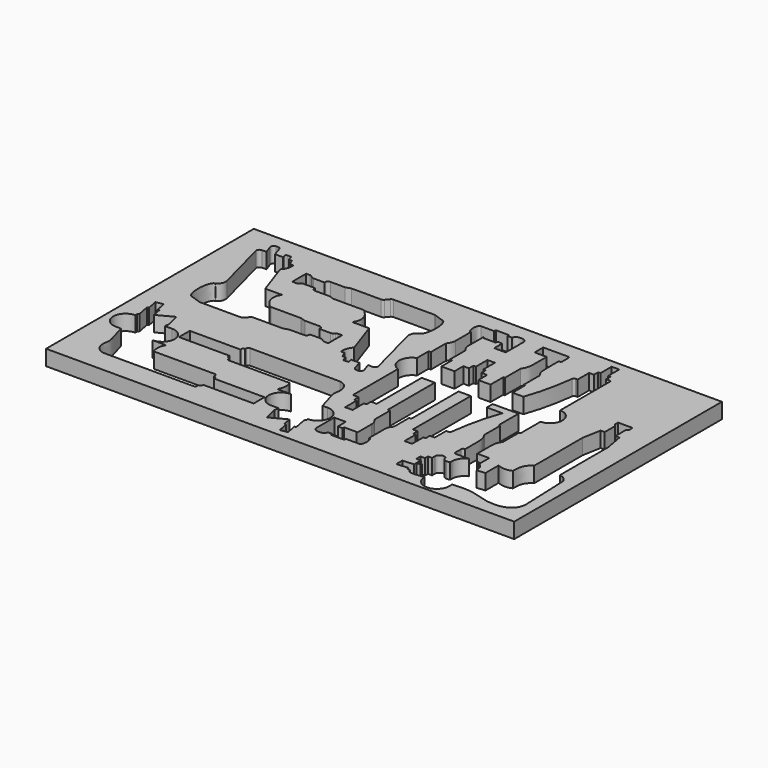
from build123d import *

# Parameters (mm, degrees)
F0_W     = 759
F0_H     = 421
F1_DEPTH = 25
F3_DEPTH = 25


with BuildPart() as f1:
    # F0 (on Top) → F1 (new body)
    with BuildSketch(Plane.XY):
        with Locations((379.5, 210.5)):
            Rectangle(F0_W, F0_H)
        with BuildLine():
            ThreePointArc((297.8065345713, 96.5237894569), (301.4198790152, 107.8318790432), (299.3635767418, 119.5237894569))
            Line((299.3635767418, 119.5237894569), (200.3635767418, 119.5237894569))
            ThreePointArc((200.3635767418, 119.5237894569), (198.2422563983, 120.4024691134), (197.3635767418, 122.5237894569))
            Line((197.3635767418, 122.5237894569), (197.3635767418, 125.215135717))
            Line((197.3635767418, 125.215135717), (196.3635767418, 125.215135717))
            ThreePointArc((196.3635767418, 125.215135717), (194.2422563983, 126.0938153734), (193.3635767418, 128.215135717))
            Line((193.3635767418, 128.215135717), (193.3635767418, 130.0237894569))
            Line((193.3635767418, 130.0237894569), (111.3635767418, 130.0237894569))
            Line((111.3635767418, 130.0237894569), (111.3635767418, 141.0237894569))
            Line((111.3635767418, 141.0237894569), (111.3635767418, 152.0237894569))
            Line((111.3635767418, 152.0237894569), (193.3635767418, 152.0237894569))
            Line((193.3635767418, 152.0237894569), (193.3635767418, 153.8324431969))
            ThreePointArc((193.3635767418, 153.8324431969), (194.2422563983, 155.9537635404), (196.3635767418, 156.8324431969))
            Line((196.3635767418, 156.8324431969), (197.3635767418, 156.8324431969))
            Line((197.3635767418, 156.8324431969), (197.3635767418, 159.5237894569))
            ThreePointArc((197.3635767418, 159.5237894569), (198.2422563983, 161.6451098005), (200.3635767418, 162.5237894569))
            Line((200.3635767418, 162.5237894569), (299.3635767418, 162.5237894569))
            Line((299.3635767418, 162.5237894569), (346.3635767418, 162.5237894569))
            add(Edge.make_bspline(
                [(346.3635767418, 162.5237894569), (361.0133890826, 160.2262736474), (363.9664194278, 139.7781896956), (357.6443728897, 131.2149875787), (377.0174596502, 85.6661492262), (379.7241853382, 53.5237894569)],
                knots=[0, 0, 0, 0, 0.3006456814, 0.4801373436, 1, 1, 1, 1], degree=3))
            Line((379.7241853382, 53.5237894569), (377.5981784342, 50.8200850994))
            Line((377.5981784342, 50.8200850994), (381.5354905367, 30.303162995))
            Line((381.5354905367, 30.303162995), (378.8600717667, 29.7897351695))
            Line((378.8600717667, 29.7897351695), (382.1233010385, 12.7853882864))
            Line((382.1233010385, 12.7853882864), (370.3383457677, 10.5237894569))
            Line((370.3383457677, 10.5237894569), (367.0388546955, 27.5211774977))
            Line((367.0388546955, 27.5211774977), (364.3645368922, 27.0020455173))
            Line((364.3645368922, 27.0020455173), (361.6015602376, 41.2355698148))
            Line((361.6015602376, 41.2355698148), (336.1134910264, 27.7016565111))
            Line((336.1134910264, 27.7016565111), (330.5957455951, 49.7016565111))
            add(Edge.make_bspline(
                [(319.8065345713, 96.5237894569), (331.4341296274, 86.6735235964), (334.4084647316, 63.7711242941), (330.5957455951, 49.7016565111)],
                knots=[0, 0, 0, 0, 48.0491332711, 48.0491332711, 48.0491332711, 48.0491332711], degree=3))
            Line((319.8065345713, 96.5237894569), (297.8065345713, 96.5237894569))
        make_face(mode=Mode.SUBTRACT)
        with BuildLine():
            ThreePointArc((112.5540558689, 102.4800832445), (108.9407114251, 91.1719936582), (110.9970136985, 79.4800832445))
            Line((110.9970136985, 79.4800832445), (209.9970136985, 79.4800832445))
            ThreePointArc((209.9970136985, 79.4800832445), (212.118334042, 78.601403588), (212.9970136985, 76.4800832445))
            Line((212.9970136985, 76.4800832445), (212.9970136985, 73.7887369844))
            Line((212.9970136985, 73.7887369844), (213.9970136985, 73.7887369844))
            ThreePointArc((213.9970136985, 73.7887369844), (216.118334042, 72.910057328), (216.9970136985, 70.7887369844))
            Line((216.9970136985, 70.7887369844), (216.9970136985, 68.9800832445))
            Line((216.9970136985, 68.9800832445), (298.9970136985, 68.9800832445))
            Line((298.9970136985, 68.9800832445), (298.9970136985, 57.9800832445))
            Line((298.9970136985, 57.9800832445), (298.9970136985, 46.9800832445))
            Line((298.9970136985, 46.9800832445), (216.9970136985, 46.9800832445))
            Line((216.9970136985, 46.9800832445), (216.9970136985, 45.1714295045))
            ThreePointArc((216.9970136985, 45.1714295045), (216.118334042, 43.0501091609), (213.9970136985, 42.1714295045))
            Line((213.9970136985, 42.1714295045), (212.9970136985, 42.1714295045))
            Line((212.9970136985, 42.1714295045), (212.9970136985, 39.4800832445))
            ThreePointArc((212.9970136985, 39.4800832445), (212.118334042, 37.3587629009), (209.9970136985, 36.4800832445))
            Line((209.9970136985, 36.4800832445), (110.9970136985, 36.4800832445))
            Line((110.9970136985, 36.4800832445), (63.9970136985, 36.4800832445))
            add(Edge.make_bspline(
                [(63.9970136985, 36.4800832445), (49.3472013577, 38.777599054), (46.3941710125, 59.2256830057), (52.7162175506, 67.7888851227), (33.34313079, 113.3377234752), (30.6364051021, 145.4800832445)],
                knots=[0, 0, 0, 0, 0.3006456814, 0.4801373436, 1, 1, 1, 1], degree=3))
            Line((30.6364051021, 145.4800832445), (32.7624120061, 148.183787602))
            Line((32.7624120061, 148.183787602), (28.8250999036, 168.7007097064))
            Line((28.8250999036, 168.7007097064), (31.5005186735, 169.2141375319))
            Line((31.5005186735, 169.2141375319), (28.2372894018, 186.218484415))
            Line((28.2372894018, 186.218484415), (40.0222446726, 188.4800832445))
            Line((40.0222446726, 188.4800832445), (43.3217357448, 171.4826952037))
            Line((43.3217357448, 171.4826952037), (45.9960535481, 172.0018271841))
            Line((45.9960535481, 172.0018271841), (48.7590302027, 157.7683028866))
            Line((48.7590302027, 157.7683028866), (74.2470994139, 171.3022161903))
            Line((74.2470994139, 171.3022161903), (79.7648448452, 149.3022161903))
            add(Edge.make_bspline(
                [(90.5540558689, 102.4800832445), (78.9264608129, 112.330349105), (75.9521257087, 135.2327484073), (79.7648448452, 149.3022161903)],
                knots=[0, 0, 0, 0, 48.0491332712, 48.0491332712, 48.0491332712, 48.0491332712], degree=3))
            Line((90.5540558689, 102.4800832445), (112.5540558689, 102.4800832445))
        make_face(mode=Mode.SUBTRACT)
        with BuildLine():
            Line((471.8426991832, 292.6370518442), (481.0009230506, 292.6370518442))
            Line((481.0009230506, 292.6370518442), (481.0009230506, 139.0754858192))
            Line((481.0009230506, 139.0754858192), (477.4204762393, 139.0754858192))
            Line((477.4204762393, 139.0754858192), (477.4204762393, 108.4958741602))
            add(Edge.make_bspline(
                [(477.4204762393, 108.4958741602), (475.2619792354, 105.9254648324), (472.0893432033, 101.2552621003), (472.2341973913, 95.4593027171)],
                knots=[0, 0, 0, 0, 14.0303130143, 14.0303130143, 14.0303130143, 14.0303130143], degree=3))
            Line((472.2341973913, 95.4593027171), (472.2341973913, 64.6399760779))
            add(Edge.make_bspline(
                [(472.2341973913, 64.6399760779), (478.1872708929, 64.6101774808), (478.3994932306, 44.0659800705), (472.2341973913, 44.0502705213)],
                knots=[0, 0, 0, 0, 20.5897055566, 20.5897055566, 20.5897055566, 20.5897055566], degree=3))
            Line((472.2341973913, 44.0502705213), (451.3408250826, 44.0502705213))
            Line((451.3408250826, 44.0502705213), (450.1907308233, 40.8706011411))
            Line((450.1907308233, 40.8706011411), (429.2036522758, 40.8706011411))
            Line((429.2036522758, 40.8706011411), (429.2036522758, 44.0502705213))
            Line((429.2036522758, 44.0502705213), (421.5516973865, 44.0502705213))
            add(Edge.make_bspline(
                [(421.5516973865, 44.0502705213), (421.2760706079, 35.0835563775), (403.0773271453, 35.9855236646), (402.8120417726, 44.0502705213)],
                knots=[0, 0, 0, 0, 18.7396556139, 18.7396556139, 18.7396556139, 18.7396556139], degree=3))
            Line((402.8120417726, 44.0502705213), (402.8120417726, 80.561512911))
            Line((402.8120417726, 80.561512911), (421.5516973865, 80.561512911))
            Line((421.5516973865, 80.561512911), (421.5516973865, 64.3079223272))
            Line((421.5516973865, 64.3079223272), (429.2036522758, 64.3079223272))
            Line((429.2036522758, 64.3079223272), (429.2036522758, 67.4875917073))
            Line((429.2036522758, 67.4875917073), (450.1907308233, 67.4875917073))
            Line((450.1907308233, 67.4875917073), (451.1581952144, 64.8128397243))
            Line((451.1581952144, 64.8128397243), (451.1581952144, 95.4593027171))
            add(Edge.make_bspline(
                [(445.9719163664, 108.4958741602), (448.1304133702, 105.9254648324), (451.3030494023, 101.2552621003), (451.1581952144, 95.4593027171)],
                knots=[0, 0, 0, 0, 14.0303130143, 14.0303130143, 14.0303130143, 14.0303130143], degree=3))
            Line((445.9719163664, 108.4958741602), (445.9719163664, 139.0754858192))
            Line((445.9719163664, 139.0754858192), (442.391469555, 139.0754858192))
            Line((442.391469555, 139.0754858192), (442.391469555, 292.6370518442))
            Line((442.391469555, 292.6370518442), (451.5496934224, 292.6370518442))
            Line((451.5496934224, 292.6370518442), (451.5496934224, 301.5947284337))
            Line((451.5496934224, 301.5947284337), (455.6559873112, 301.5947284337))
            Line((455.6559873112, 301.5947284337), (455.6559873112, 324.9025659796))
            Line((455.6559873112, 324.9025659796), (461.6961963028, 324.9025659796))
            Line((461.6961963028, 324.9025659796), (467.7364052945, 324.9025659796))
            Line((467.7364052945, 324.9025659796), (467.7364052945, 301.5947284337))
            Line((467.7364052945, 301.5947284337), (471.8426991832, 301.5947284337))
            Line((471.8426991832, 301.5947284337), (471.8426991832, 292.6370518442))
        make_face(mode=Mode.SUBTRACT)
        with BuildLine():
            Line((724.467581263, 233.9490050221), (724.467581263, 135.5878903816))
            ThreePointArc((724.467581263, 135.5878903816), (732.8262483431, 132.2434807548), (738.076768903, 124.9301761011))
            Line((738.076768903, 124.9301761011), (741.075201085, 50.0048949937))
            add(Edge.make_bspline(
                [(561.8964937834, 28.7687211851), (565.0696982019, 28.7547259622), (568.7637255679, 28.1894967071), (569.5508132889, 16.777712275), (659.5525773998, 41.5614773682), (696.8769079907, 14.9737086821), (742.9515105991, 24.9971106271), (741.075201085, 50.0048949937)],
                knots=[0, 0, 0, 0, 0.0900193427, 0.1711354667, 0.4934505556, 0.7541760679, 1, 1, 1, 1], degree=3))
            Line((561.8964937834, 28.7687211851), (561.8964937834, 31.495132332))
            Line((561.8964937834, 31.495132332), (543.7403080103, 30.1225497102))
            Line((543.7403080103, 30.1225497102), (543.7403080103, 42.2867034165))
            Line((543.7403080103, 42.2867034165), (561.8964937834, 43.6592860382))
            Line((561.8964937834, 43.6592860382), (561.8964937834, 48.391287646))
            Line((561.8964937834, 48.391287646), (568.6106887974, 48.391287646))
            Line((568.6106887974, 48.391287646), (568.6106887974, 50.7186084608))
            Line((568.6106887974, 50.7186084608), (561.8964937834, 50.7186084608))
            Line((561.8964937834, 50.7186084608), (561.8964937834, 57.0070036563))
            Line((561.8964937834, 57.0070036563), (554.6410289912, 57.0070036563))
            Line((554.6410289912, 57.0070036563), (554.6410289912, 65.4650536358))
            Line((554.6410289912, 65.4650536358), (561.8964937834, 65.4650536358))
            Line((561.8964937834, 65.4650536358), (561.8964937834, 71.6114669661))
            Line((561.8964937834, 71.6114669661), (568.6106887974, 71.6114669661))
            Line((568.6106887974, 71.6114669661), (568.6106887974, 77.1525132551))
            ThreePointArc((568.6106887974, 77.1525132551), (572.7381362335, 83.9709341346), (580.6930817378, 83.4754266653))
            ThreePointArc((580.6930817378, 83.4754266653), (581.2704208742, 82.8571350303), (581.54051469, 82.0554777749))
            ThreePointArc((581.54051469, 82.0554777749), (583.8424916197, 77.5969621963), (588.5301438479, 75.8071645717))
            Line((588.5301438479, 75.8071645717), (647.2599563507, 81.4479684761))
            Line((647.2599563507, 81.4479684761), (647.2599563507, 108.3575069527))
            ThreePointArc((647.2599563507, 108.3575069527), (658.8630283621, 105.1367402665), (670.6316528229, 107.6870532761))
            add(Edge.make_bspline(
                [(670.6316528229, 107.6870532761), (670.6316528229, 121.2448693636), (675.0543508644, 129.7909912969), (679.3782002879, 133.0860063036), (682.9549131302, 135.5878903816)],
                knots=[0, 0, 0, 0, 0.6127133265, 1, 1, 1, 1], degree=3))
            Line((682.9549131302, 135.5878903816), (682.9549131302, 233.9490050221))
            Line((682.9549131302, 233.9490050221), (688.3762610463, 263.3384048561))
            Line((688.3762610463, 263.3384048561), (694.97985964, 263.3384048561))
            Line((694.97985964, 263.3384048561), (694.97985964, 284.2780361697))
            Line((694.97985964, 284.2780361697), (691.9212249426, 287.9231750588))
            Line((691.9212249426, 287.9231750588), (691.9212249426, 294.3406283478))
            Line((691.9212249426, 294.3406283478), (703.7112471966, 294.3406283478))
            Line((703.7112471966, 294.3406283478), (715.5012694506, 294.3406283478))
            Line((715.5012694506, 294.3406283478), (715.5012694506, 287.9231750588))
            Line((715.5012694506, 287.9231750588), (712.4426347532, 284.2780361697))
            Line((712.4426347532, 284.2780361697), (712.4426347532, 263.3384048561))
            Line((712.4426347532, 263.3384048561), (719.0462333469, 263.3384048561))
            Line((719.0462333469, 263.3384048561), (724.467581263, 233.9490050221))
        make_face(mode=Mode.SUBTRACT)
        with BuildLine():
            Line((138.7471209294, 221.3752079098), (72.39474203, 221.3752079098))
            ThreePointArc((72.39474203, 221.3752079098), (71.5589917132, 221.4455505781), (70.7467569593, 221.6545993467))
            Line((70.7467569593, 221.6545993467), (56.0633288256, 226.7806482508))
            add(Edge.make_bspline(
                [(56.0633288256, 273.7342295244), (45.1919929615, 273.7342295244), (43.7846248529, 226.7806482508), (56.0633288256, 226.7806482508)],
                knots=[0, 0, 0, 0, 46.9535812736, 46.9535812736, 46.9535812736, 46.9535812736], degree=3))
            ThreePointArc((56.0633288256, 273.7342295244), (61.7853216943, 280.2761959921), (62.3768287624, 288.9473347318))
            Line((62.3768287624, 288.9473347318), (39.6245335176, 375.465926667))
            ThreePointArc((39.6245335176, 375.465926667), (40.5004375975, 379.7905833044), (44.4601228553, 381.7375696033))
            Line((44.4601228553, 381.7375696033), (51.8821131184, 381.7375696033))
            Line((51.8821131184, 381.7375696033), (47.3247239493, 394.6431996458))
            ThreePointArc((47.3247239493, 394.6431996458), (47.9574514553, 399.1956158801), (52.0393933954, 401.3080996468))
            Line((52.0393933954, 401.3080996468), (55.0751392747, 401.3080996468))
            ThreePointArc((55.0751392747, 401.3080996468), (58.0295664278, 400.3418770573), (59.8421398791, 397.8166437257))
            Line((59.8421398791, 397.8166437257), (64.3791006438, 383.479843755))
            Line((64.3791006438, 383.479843755), (77.6938655905, 383.479843755))
            Line((77.6938655905, 383.479843755), (76.3775946501, 388.1599171366))
            ThreePointArc((76.3775946501, 388.1599171366), (76.708690969, 389.9090957538), (78.302896498, 390.7014084055))
            Line((78.302896498, 390.7014084055), (83.4475559062, 390.7014084055))
            ThreePointArc((83.4475559062, 390.7014084055), (84.6309182085, 390.3137525566), (85.3555431929, 389.301062067))
            Line((85.3555431929, 389.301062067), (87.3978482119, 382.8028243973))
            Line((87.3978482119, 382.8028243973), (92.1370060674, 382.8028243973))
            Line((92.1370060674, 382.8028243973), (95.9734590284, 374.064935287))
            Line((95.9734590284, 374.064935287), (101.8255328238, 374.064935287))
            ThreePointArc((101.8255328238, 374.064935287), (100.8538115111, 363.8816884306), (95.4749853841, 355.1804822876))
            Line((95.4749853841, 355.1804822876), (113.7973339788, 301.991696377))
            Line((113.7973339788, 301.991696377), (141.1838130585, 301.991696377))
            ThreePointArc((141.1838130585, 301.991696377), (136.9108907917, 289.3169656153), (141.0786592202, 276.6072696745))
            Line((141.0786592202, 276.6072696745), (147.4577107776, 269.0050120637))
            ThreePointArc((147.4577107776, 269.0050120637), (149.1748416845, 267.6874111769), (151.2879329932, 267.2189501121))
            Line((151.2879329932, 267.2189501121), (199.7026714511, 267.2189501121))
            Line((199.7026714511, 267.2189501121), (207.8253862445, 264.6463575654))
            Line((207.8253862445, 264.6463575654), (231.3250044172, 264.6463575654))
            ThreePointArc((231.3250044172, 264.6463575654), (234.8605383231, 263.1818914713), (236.3250044172, 259.6463575654))
            Line((236.3250044172, 259.6463575654), (236.3250044172, 258.7223785811))
            Line((236.3250044172, 258.7223785811), (254.3391649998, 258.7223785811))
            ThreePointArc((254.3391649998, 258.7223785811), (256.0492657164, 259.0239154771), (257.5531030482, 259.8921563655))
            Line((257.5531030482, 259.8921563655), (259.887987193, 261.8513567902))
            ThreePointArc((259.887987193, 261.8513567902), (261.3918245248, 262.7195976786), (263.1019252415, 263.0211345746))
            Line((263.1019252415, 263.0211345746), (269.5076139203, 263.0211345746))
            Line((269.5076139203, 263.0211345746), (269.5076139203, 248.9912387922))
            Line((269.5076139203, 248.9912387922), (269.5076139203, 234.9613430097))
            Line((269.5076139203, 234.9613430097), (263.1019252415, 234.9613430097))
            ThreePointArc((263.1019252415, 234.9613430097), (261.3918245248, 235.2628799058), (259.887987193, 236.1311207941))
            Line((259.887987193, 236.1311207941), (257.5531030482, 238.0903212189))
            ThreePointArc((257.5531030482, 238.0903212189), (256.0492657164, 238.9585621072), (254.3391649998, 239.2600990033))
            Line((254.3391649998, 239.2600990033), (236.3250044172, 239.2600990033))
            Line((236.3250044172, 239.2600990033), (236.3250044172, 238.3361200189))
            ThreePointArc((236.3250044172, 238.3361200189), (234.8605383231, 234.800586113), (231.3250044172, 233.3361200189))
            Line((231.3250044172, 233.3361200189), (207.8253862445, 233.3361200189))
            Line((207.8253862445, 233.3361200189), (199.7026714511, 230.7635274722))
            Line((199.7026714511, 230.7635274722), (151.2879329932, 230.7635274722))
            ThreePointArc((151.2879329932, 230.7635274722), (149.1748416845, 230.2950664074), (147.4577107776, 228.9774655207))
            Line((147.4577107776, 228.9774655207), (142.577343145, 223.1612698614))
            ThreePointArc((142.577343145, 223.1612698614), (140.8602122381, 221.8436689746), (138.7471209294, 221.3752079098))
        make_face(mode=Mode.SUBTRACT)
        with BuildLine():
            Line((259.3434536655, 379.951845595), (325.6958325649, 379.951845595))
            ThreePointArc((325.6958325649, 379.951845595), (326.5315828818, 379.8815029267), (327.3438176357, 379.6724541582))
            Line((327.3438176357, 379.6724541582), (342.0272457694, 374.5464052541))
            add(Edge.make_bspline(
                [(342.0272457694, 327.5928239805), (352.8985816335, 327.5928239805), (354.3059497421, 374.5464052541), (342.0272457694, 374.5464052541)],
                knots=[0, 0, 0, 0, 46.9535812736, 46.9535812736, 46.9535812736, 46.9535812736], degree=3))
            ThreePointArc((342.0272457694, 327.5928239805), (336.3052529006, 321.0508575128), (335.7137458326, 312.379718773))
            Line((335.7137458326, 312.379718773), (358.4660410774, 225.8611268379))
            ThreePointArc((358.4660410774, 225.8611268379), (357.5901369975, 221.5364702004), (353.6304517397, 219.5894839016))
            Line((353.6304517397, 219.5894839016), (346.2084614766, 219.5894839016))
            Line((346.2084614766, 219.5894839016), (350.7658506457, 206.683853859))
            ThreePointArc((350.7658506457, 206.683853859), (350.1331231396, 202.1314376248), (346.0511811995, 200.0189538581))
            Line((346.0511811995, 200.0189538581), (343.0154353202, 200.0189538581))
            ThreePointArc((343.0154353202, 200.0189538581), (340.0610081672, 200.9851764476), (338.2484347159, 203.5104097791))
            Line((338.2484347159, 203.5104097791), (333.7114739512, 217.8472097499))
            Line((333.7114739512, 217.8472097499), (320.3967090045, 217.8472097499))
            Line((320.3967090045, 217.8472097499), (321.7129799449, 213.1671363682))
            ThreePointArc((321.7129799449, 213.1671363682), (321.381883626, 211.4179577511), (319.7876780969, 210.6256450993))
            Line((319.7876780969, 210.6256450993), (314.6430186888, 210.6256450993))
            ThreePointArc((314.6430186888, 210.6256450993), (313.4596563865, 211.0133009483), (312.735031402, 212.0259914379))
            Line((312.735031402, 212.0259914379), (310.6927263831, 218.5242291076))
            Line((310.6927263831, 218.5242291076), (305.9535685276, 218.5242291076))
            Line((305.9535685276, 218.5242291076), (302.1171155666, 227.2621182178))
            Line((302.1171155666, 227.2621182178), (296.2650417711, 227.2621182178))
            ThreePointArc((296.2650417711, 227.2621182178), (297.2367630839, 237.4453650742), (302.6155892109, 246.1465712172))
            Line((302.6155892109, 246.1465712172), (284.2932406162, 299.3353571278))
            Line((284.2932406162, 299.3353571278), (256.9067615365, 299.3353571278))
            ThreePointArc((256.9067615365, 299.3353571278), (261.1796838033, 312.0100878896), (257.0119153748, 324.7197838304))
            Line((257.0119153748, 324.7197838304), (250.6328638174, 332.3220414412))
            ThreePointArc((250.6328638174, 332.3220414412), (248.9157329105, 333.639642328), (246.8026416018, 334.1081033928))
            Line((246.8026416018, 334.1081033928), (198.3879031439, 334.1081033928))
            Line((198.3879031439, 334.1081033928), (190.2651883504, 336.6806959395))
            Line((190.2651883504, 336.6806959395), (166.7655701778, 336.6806959395))
            ThreePointArc((166.7655701778, 336.6806959395), (163.2300362719, 338.1451620335), (161.7655701778, 341.6806959395))
            Line((161.7655701778, 341.6806959395), (161.7655701778, 342.6046749238))
            Line((161.7655701778, 342.6046749238), (143.7514095952, 342.6046749238))
            ThreePointArc((143.7514095952, 342.6046749238), (142.0413088786, 342.3031380277), (140.5374715468, 341.4348971394))
            Line((140.5374715468, 341.4348971394), (138.2025874019, 339.4756967146))
            ThreePointArc((138.2025874019, 339.4756967146), (136.6987500701, 338.6074558263), (134.9886493535, 338.3059189302))
            Line((134.9886493535, 338.3059189302), (128.5829606746, 338.3059189302))
            Line((128.5829606746, 338.3059189302), (128.5829606746, 352.3358147127))
            Line((128.5829606746, 352.3358147127), (128.5829606746, 366.3657104952))
            Line((128.5829606746, 366.3657104952), (134.9886493535, 366.3657104952))
            ThreePointArc((134.9886493535, 366.3657104952), (136.6987500701, 366.0641735991), (138.2025874019, 365.1959327108))
            Line((138.2025874019, 365.1959327108), (140.5374715468, 363.236732286))
            ThreePointArc((140.5374715468, 363.236732286), (142.0413088786, 362.3684913977), (143.7514095952, 362.0669545016))
            Line((143.7514095952, 362.0669545016), (161.7655701778, 362.0669545016))
            Line((161.7655701778, 362.0669545016), (161.7655701778, 362.990933486))
            ThreePointArc((161.7655701778, 362.990933486), (163.2300362719, 366.5264673919), (166.7655701778, 367.990933486))
            Line((166.7655701778, 367.990933486), (190.2651883504, 367.990933486))
            Line((190.2651883504, 367.990933486), (198.3879031439, 370.5635260326))
            Line((198.3879031439, 370.5635260326), (246.8026416018, 370.5635260326))
            ThreePointArc((246.8026416018, 370.5635260326), (248.9157329105, 371.0319870974), (250.6328638174, 372.3495879842))
            Line((250.6328638174, 372.3495879842), (255.51323145, 378.1657836435))
            ThreePointArc((255.51323145, 378.1657836435), (257.2303623568, 379.4833845302), (259.3434536655, 379.951845595))
        make_face(mode=Mode.SUBTRACT)
        with BuildLine():
            Line((391.7187675777, 143.5822193857), (382.5605437103, 143.5822193857))
            Line((382.5605437103, 143.5822193857), (382.5605437103, 297.1437854108))
            Line((382.5605437103, 297.1437854108), (386.1409905217, 297.1437854108))
            Line((386.1409905217, 297.1437854108), (386.1409905217, 327.7233970698))
            add(Edge.make_bspline(
                [(386.1409905217, 327.7233970698), (388.2994875255, 330.2938063975), (391.4721235576, 334.9640091296), (391.3272693697, 340.7599685129)],
                knots=[0, 0, 0, 0, 14.0303130143, 14.0303130143, 14.0303130143, 14.0303130143], degree=3))
            Line((391.3272693697, 340.7599685129), (391.3272693697, 371.5792951521))
            add(Edge.make_bspline(
                [(391.3272693697, 371.5792951521), (385.3741958681, 371.6090937492), (385.1619735304, 392.1532911595), (391.3272693697, 392.1690007087)],
                knots=[0, 0, 0, 0, 20.5897055566, 20.5897055566, 20.5897055566, 20.5897055566], degree=3))
            Line((391.3272693697, 392.1690007087), (412.2206416784, 392.1690007087))
            Line((412.2206416784, 392.1690007087), (413.3707359377, 395.3486700889))
            Line((413.3707359377, 395.3486700889), (434.3578144851, 395.3486700889))
            Line((434.3578144851, 395.3486700889), (434.3578144851, 392.1690007087))
            Line((434.3578144851, 392.1690007087), (442.0097693744, 392.1690007087))
            add(Edge.make_bspline(
                [(442.0097693744, 392.1690007087), (442.285396153, 401.1357148524), (460.4841396156, 400.2337475654), (460.7494249883, 392.1690007087)],
                knots=[0, 0, 0, 0, 18.7396556139, 18.7396556139, 18.7396556139, 18.7396556139], degree=3))
            Line((460.7494249883, 392.1690007087), (460.7494249883, 355.657758319))
            Line((460.7494249883, 355.657758319), (442.0097693744, 355.657758319))
            Line((442.0097693744, 355.657758319), (442.0097693744, 371.9113489028))
            Line((442.0097693744, 371.9113489028), (434.3578144851, 371.9113489028))
            Line((434.3578144851, 371.9113489028), (434.3578144851, 368.7316795226))
            Line((434.3578144851, 368.7316795226), (413.3707359377, 368.7316795226))
            Line((413.3707359377, 368.7316795226), (412.4032715466, 371.4064315057))
            Line((412.4032715466, 371.4064315057), (412.4032715466, 340.7599685129))
            add(Edge.make_bspline(
                [(417.5895503946, 327.7233970698), (415.4310533907, 330.2938063975), (412.2584173586, 334.9640091296), (412.4032715466, 340.7599685129)],
                knots=[0, 0, 0, 0, 14.0303130143, 14.0303130143, 14.0303130143, 14.0303130143], degree=3))
            Line((417.5895503946, 327.7233970698), (417.5895503946, 297.1437854108))
            Line((417.5895503946, 297.1437854108), (421.1699972059, 297.1437854108))
            Line((421.1699972059, 297.1437854108), (421.1699972059, 143.5822193857))
            Line((421.1699972059, 143.5822193857), (412.0117733385, 143.5822193857))
            Line((412.0117733385, 143.5822193857), (412.0117733385, 134.6245427962))
            Line((412.0117733385, 134.6245427962), (407.9054794498, 134.6245427962))
            Line((407.9054794498, 134.6245427962), (407.9054794498, 111.3167052504))
            Line((407.9054794498, 111.3167052504), (401.8652704581, 111.3167052504))
            Line((401.8652704581, 111.3167052504), (395.8250614665, 111.3167052504))
            Line((395.8250614665, 111.3167052504), (395.8250614665, 134.6245427962))
            Line((395.8250614665, 134.6245427962), (391.7187675777, 134.6245427962))
            Line((391.7187675777, 134.6245427962), (391.7187675777, 143.5822193857))
        make_face(mode=Mode.SUBTRACT)
        with BuildLine():
            Line((524.754712195, 85.9322512337), (518.6031924792, 85.9322512337))
            Line((518.6031924792, 85.9322512337), (512.4516727634, 85.9322512337))
            Line((512.4516727634, 85.9322512337), (512.4516727634, 108.5551420042))
            Line((512.4516727634, 108.5551420042), (508.6603107162, 108.5551420042))
            Line((508.6603107162, 108.5551420042), (508.6603107162, 117.2204857507))
            Line((508.6603107162, 117.2204857507), (500.833550305, 117.2204857507))
            Line((500.833550305, 117.2204857507), (500.833550305, 140.4212472775))
            Line((500.833550305, 140.4212472775), (500.833550305, 300.6410842576))
            Line((500.833550305, 300.6410842576), (503.3138687004, 300.6410842576))
            Line((503.3138687004, 300.6410842576), (503.3138687004, 332.7561705774))
            add(Edge.make_bspline(
                [(503.3138687004, 332.7561705774), (510.191300122, 343.6340230556), (508.4755547668, 345.5130184795), (508.9010943605, 378.4417310286)],
                knots=[0, 0, 0, 0, 46.0259440351, 46.0259440351, 46.0259440351, 46.0259440351], degree=3))
            Line((508.9010943605, 378.4417310286), (489.299872727, 378.4417310286))
            Line((489.299872727, 378.4417310286), (489.299872727, 395.9983533063))
            Line((489.299872727, 395.9983533063), (529.2848128386, 395.9983533063))
            ThreePointArc((529.2848128386, 395.9983533063), (531.4061331822, 395.1196736499), (532.2848128386, 392.9983533063))
            Line((532.2848128386, 392.9983533063), (532.2848128386, 381.4417310286))
            ThreePointArc((532.2848128386, 381.4417310286), (531.4061331822, 379.320410685), (529.2848128386, 378.4417310286))
            Line((529.2848128386, 378.4417310286), (528.305290598, 378.4417310286))
            add(Edge.make_bspline(
                [(533.892516258, 332.7561705774), (527.0150848364, 343.6340230556), (528.7308301917, 345.5130184795), (528.305290598, 378.4417310286)],
                knots=[0, 0, 0, 0, 46.0259440351, 46.0259440351, 46.0259440351, 46.0259440351], degree=3))
            Line((533.892516258, 332.7561705774), (533.892516258, 300.6410842576))
            Line((533.892516258, 300.6410842576), (536.3728346535, 300.6410842576))
            Line((536.3728346535, 300.6410842576), (536.3728346535, 222.8620296159))
            Line((536.3728346535, 222.8620296159), (561.6020726272, 222.8620296159))
            add(Edge.make_bspline(
                [(543.0325146722, 143.0506386862), (546.5695506952, 171.462898777), (552.3197172734, 197.720329163), (561.6020726272, 222.8620296159)],
                knots=[2.5252243341, 2.5252243341, 2.5252243341, 2.5252243341, 84.577242451, 84.577242451, 84.577242451, 84.577242451], degree=3))
            ThreePointArc((543.0325146722, 143.0506386862), (542.0414670583, 141.1727115569), (540.0554944721, 140.4212472775))
            Line((540.0554944721, 140.4212472775), (536.3728346535, 140.4212472775))
            Line((536.3728346535, 140.4212472775), (536.3728346535, 117.2204857507))
            Line((536.3728346535, 117.2204857507), (528.5460742422, 117.2204857507))
            Line((528.5460742422, 117.2204857507), (528.5460742422, 108.5551420042))
            Line((528.5460742422, 108.5551420042), (524.754712195, 108.5551420042))
            Line((524.754712195, 108.5551420042), (524.754712195, 85.9322512337))
        make_face(mode=Mode.SUBTRACT)
        with BuildLine():
            Line((589.9213806995, 408.9063861558), (596.0729004153, 408.9063861558))
            Line((596.0729004153, 408.9063861558), (602.2244201311, 408.9063861558))
            Line((602.2244201311, 408.9063861558), (602.2244201311, 386.2834953853))
            Line((602.2244201311, 386.2834953853), (606.0157821783, 386.2834953853))
            Line((606.0157821783, 386.2834953853), (606.0157821783, 377.6181516388))
            Line((606.0157821783, 377.6181516388), (613.8425425895, 377.6181516388))
            Line((613.8425425895, 377.6181516388), (613.8425425895, 354.417390112))
            Line((613.8425425895, 354.417390112), (613.8425425895, 194.1975531318))
            Line((613.8425425895, 194.1975531318), (611.3622241941, 194.1975531318))
            Line((611.3622241941, 194.1975531318), (611.3622241941, 162.0824668121))
            add(Edge.make_bspline(
                [(611.3622241941, 162.0824668121), (604.4847927725, 151.2046143339), (606.2580821927, 149.3256189099), (605.832542599, 116.3969063609)],
                knots=[0, 0, 0, 0, 46.0189940382, 46.0189940382, 46.0189940382, 46.0189940382], degree=3))
            Line((605.832542599, 116.3969063609), (625.3762201675, 116.3969063609))
            Line((625.3762201675, 116.3969063609), (625.3762201675, 98.8402840832))
            Line((625.3762201675, 98.8402840832), (585.3912800558, 98.8402840832))
            ThreePointArc((585.3912800558, 98.8402840832), (583.2699597123, 99.7189637396), (582.3912800558, 101.8402840832))
            Line((582.3912800558, 101.8402840832), (582.3912800558, 113.3969063609))
            ThreePointArc((582.3912800558, 113.3969063609), (583.2699597123, 115.5182267045), (585.3912800558, 116.3969063609))
            Line((585.3912800558, 116.3969063609), (586.3132582315, 116.3969063609))
            add(Edge.make_bspline(
                [(580.7835766364, 162.0824668121), (587.6610080581, 151.2046143339), (585.8877186378, 149.3256189099), (586.3132582315, 116.3969063609)],
                knots=[0, 0, 0, 0, 46.0189940382, 46.0189940382, 46.0189940382, 46.0189940382], degree=3))
            Line((580.7835766364, 162.0824668121), (580.7835766364, 194.1975531318))
            Line((580.7835766364, 194.1975531318), (578.303258241, 194.1975531318))
            Line((578.303258241, 194.1975531318), (578.303258241, 271.9766077736))
            Line((578.303258241, 271.9766077736), (553.0740202673, 271.9766077736))
            add(Edge.make_bspline(
                [(571.6435782223, 351.7879987033), (568.1065421993, 323.3757386125), (562.3563756211, 297.1183082265), (553.0740202673, 271.9766077736)],
                knots=[2.5252243341, 2.5252243341, 2.5252243341, 2.5252243341, 84.577242451, 84.577242451, 84.577242451, 84.577242451], degree=3))
            ThreePointArc((571.6435782223, 351.7879987033), (572.6346258362, 353.6659258326), (574.6205984224, 354.417390112))
            Line((574.6205984224, 354.417390112), (578.303258241, 354.417390112))
            Line((578.303258241, 354.417390112), (578.303258241, 377.6181516388))
            Line((578.303258241, 377.6181516388), (586.1300186523, 377.6181516388))
            Line((586.1300186523, 377.6181516388), (586.1300186523, 386.2834953853))
            Line((586.1300186523, 386.2834953853), (589.9213806995, 386.2834953853))
            Line((589.9213806995, 386.2834953853), (589.9213806995, 408.9063861558))
        make_face(mode=Mode.SUBTRACT)
    extrude(amount=F1_DEPTH)

    # F2 (on Top) → F3 (cut)
    with BuildSketch(Plane.XY):
        with BuildLine():
            Line((613.3221387863, 274.7822999954), (389.8590456602, 274.7822999954))
            ThreePointArc((389.8590456602, 274.7822999954), (369.5240550654, 257.8441223794), (382.5073540211, 234.7822999954))
            Line((382.5073540211, 234.7822999954), (613.3221387863, 234.7822999954))
            ThreePointArc((613.3221387863, 234.7822999954), (633.3221387863, 254.7822999954), (613.3221387863, 274.7822999954))
        make_face()
        with BuildLine():
            ThreePointArc((633.9717436665, 80.1716796749), (613.9717436665, 100.1716796749), (593.9717436665, 80.1716796749))
            Line((593.9717436665, 80.1716796749), (593.9717436665, 24.5164149423))
            ThreePointArc((593.9717436665, 24.5164149423), (613.9717436665, 4.5164149423), (633.9717436665, 24.5164149423))
            Line((633.9717436665, 24.5164149423), (633.9717436665, 80.1716796749))
        make_face()
        with BuildLine():
            Line((379.4387964555, 96.5237894569), (319.8065345713, 96.5237894569))
            ThreePointArc((319.8065345713, 96.5237894569), (299.8065345713, 76.5237894569), (319.8065345713, 56.5237894569))
            Line((319.8065345713, 56.5237894569), (379.4387964555, 56.5237894569))
            ThreePointArc((379.4387964555, 56.5237894569), (399.4387964555, 76.5237894569), (379.4387964555, 96.5237894569))
        make_face()
        with BuildLine():
            Line((90.5540558689, 142.4800832445), (30.9217939848, 142.4800832445))
            ThreePointArc((30.9217939848, 142.4800832445), (10.9217939848, 122.4800832445), (30.9217939848, 102.4800832445))
            Line((30.9217939848, 102.4800832445), (90.5540558689, 102.4800832445))
            ThreePointArc((90.5540558689, 102.4800832445), (110.5540558689, 122.4800832445), (90.5540558689, 142.4800832445))
        make_face()
    extrude(amount=F3_DEPTH, mode=Mode.SUBTRACT)


solid = f1.part
